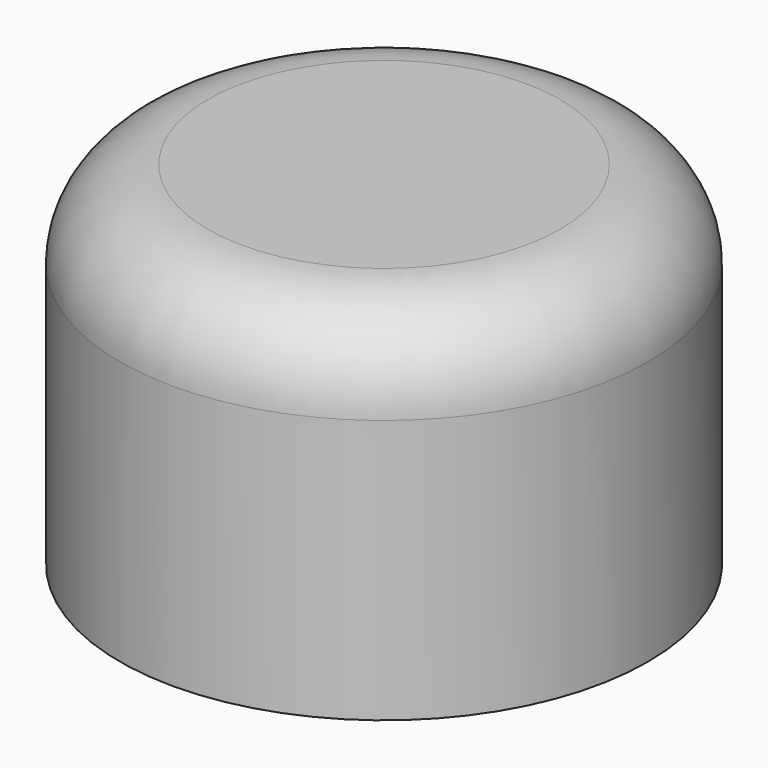
from build123d import *

# Parameters (mm, degrees)
SKETCH_R  = 1.5
PAD_DEPTH = 2
FILLET_R  = 0.5


with BuildPart() as part:
    # Sketch → Pad (new body)
    with BuildSketch(Plane.XY):
        Circle(SKETCH_R)
    extrude(amount=PAD_DEPTH)

    # Fillet
    fillet_edges = [part.edges().sort_by_distance(p)[0] for p in [
        (-1.5, 0, 2),
    ]]
    fillet(fillet_edges, radius=FILLET_R)


solid = part.part
